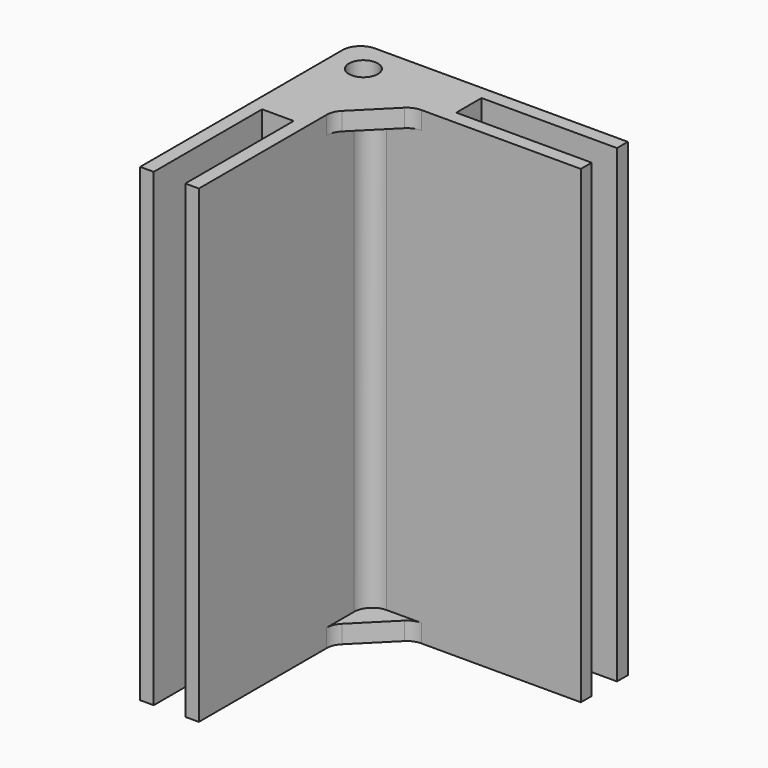
from build123d import *

# Parameters (mm, degrees)
F0_R     = 1.6
F1_DEPTH = 52
F2_DEPTH = 2
F4_DEPTH = 2
F5_R     = 2


with BuildPart() as f1:
    # F0 (on Top) → F1 (new body)
    with BuildSketch(Plane.XY):
        Polygon((22.3549354323, 10), (22.3549354323, 11.5), (-7.6450645677, 11.5), (-7.6450645677, -18.5), (-6.1450645677, -18.5), (-6.1450645677, -3.5), (-2.6450645677, -3.5), (-2.6450645677, -18.5), (-1.1450645677, -18.5), (-1.1450645677, 0), (-1.1450645677, 5), (3.8549354323, 5), (22.3549354323, 5), (22.3549354323, 6.5), (7.3549354323, 6.5), (7.3549354323, 10), align=None)
        with Locations((-4.0450645677, 7.9)):
            Circle(F0_R, mode=Mode.SUBTRACT)
    extrude(amount=F1_DEPTH)

    # F0 (on Top) → F2 (join)
    with BuildSketch(Plane.XY):
        Polygon((-1.1450645677, 0), (3.8549354323, 5), (-1.1450645677, 5), align=None)
    extrude(amount=F2_DEPTH)

    # F3 (on face) → F4 (join)
    with BuildSketch(Plane.XY.offset(52)):
        Polygon((-1.1450645677, 0), (3.8549354323, 5), (-1.1450645677, 5), align=None)
    extrude(amount=-F4_DEPTH)

    # F5
    f5_edges = [f1.edges().sort_by_distance(p)[0] for p in [
        (-1.145065, 5, 26),
        (3.854935, 5, 1),
        (-1.145065, 0, 1),
        (-1.145065, 0, 51),
        (3.854935, 5, 51),
        (-7.645065, 11.5, 26),
    ]]
    fillet(f5_edges, radius=F5_R)


solid = f1.part
